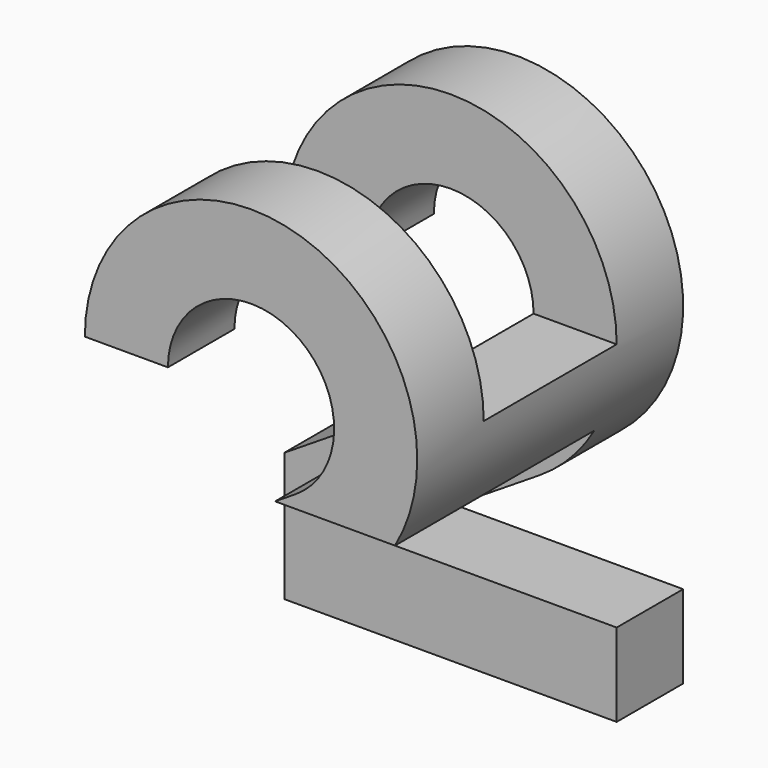
from build123d import *

# Parameters (mm, degrees)
F1_DEPTH = 20
F2_W     = 10
F2_H     = 10
F2_W_2   = 15
F2_H_2   = 15
F3_DEPTH = 56.77945


with BuildPart() as f1:
    # F0 (on Front) → F1 (new body)
    with BuildSketch(Plane.XZ):
        with BuildLine():
            Line((0, 7.752551), (0, 0))
            Line((0, 0), (20, 0))
            Line((20, 0), (20, 5))
            Line((20, 5), (5, 5))
            Line((5, 5), (15.348469, 11.55051))
            ThreePointArc((15.348469, 11.55051), (14.822619, 28.760271), (0, 20))
            Line((0, 20), (5, 20))
            ThreePointArc((5, 20), (12.411309, 24.380135), (12.674235, 15.775255))
            Line((12.674235, 15.775255), (0, 7.752551))
        make_face()
    extrude(amount=F1_DEPTH)

    # F2 (on Right) → F3 (cut, symmetric)
    with BuildSketch(Plane.YZ):
        with Locations((-10, 25)):
            Rectangle(F2_W, F2_H)
        with Locations((-12.5, 7.5)):
            Rectangle(F2_W_2, F2_H_2)
    extrude(amount=F3_DEPTH, both=True, mode=Mode.SUBTRACT)


solid = f1.part
